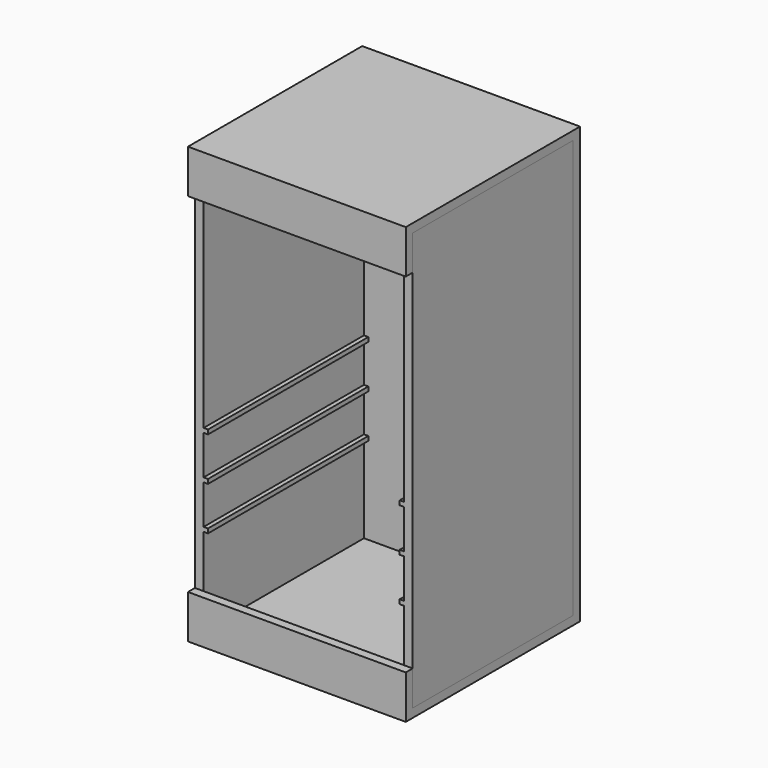
from build123d import *

# Parameters (mm, degrees)
F0_W          = 500
F0_H          = 1000
F0_W_2        = 10
F0_H_2        = 10
F2_DEPTH      = 230
F2_DEPTH_BACK = 250
F3_DEPTH      = 250
F3_DEPTH_BACK = 250


with BuildPart() as f2:
    # F0 (on Front) → F2 (new body, two sides)
    with BuildSketch(Plane.XZ) as f2_sk:
        Rectangle(F0_W, F0_H)
        Polygon((-230, 380), (-230, 480), (230, 480), (230, 380), (230, -70), (230, -80), (230, -170), (230, -180), (230, -270), (230, -280), (230, -480), (-230, -480), (-230, -280), (-230, -270), (-230, -180), (-230, -170), (-230, -80), (-230, -70), align=None, mode=Mode.SUBTRACT)
        with Locations((-225, -75)):
            Rectangle(F0_W_2, F0_H_2)
        with Locations((-225, -175)):
            Rectangle(F0_W_2, F0_H_2)
        with Locations((-225, -275)):
            Rectangle(F0_W_2, F0_H_2)
        with Locations((225, -275)):
            Rectangle(F0_W_2, F0_H_2)
        with Locations((225, -175)):
            Rectangle(F0_W_2, F0_H_2)
        with Locations((225, -75)):
            Rectangle(F0_W_2, F0_H_2)
    extrude(amount=F2_DEPTH)
    extrude(f2_sk.sketch, amount=-F2_DEPTH_BACK)


with BuildPart() as f3:
    # F1 (on Right) → F3 (new body, two sides)
    with BuildSketch(Plane.YZ) as f3_sk:
        Polygon((250, 500), (-250, 500), (-250, 400), (-230, 400), (-230, 480), (230, 480), (230, -480), (-230, -480), (-230, -400), (-250, -400), (-250, -500), (250, -500), align=None)
    extrude(amount=F3_DEPTH)
    extrude(f3_sk.sketch, amount=-F3_DEPTH_BACK)


solid = Compound([f2.part, f3.part])
